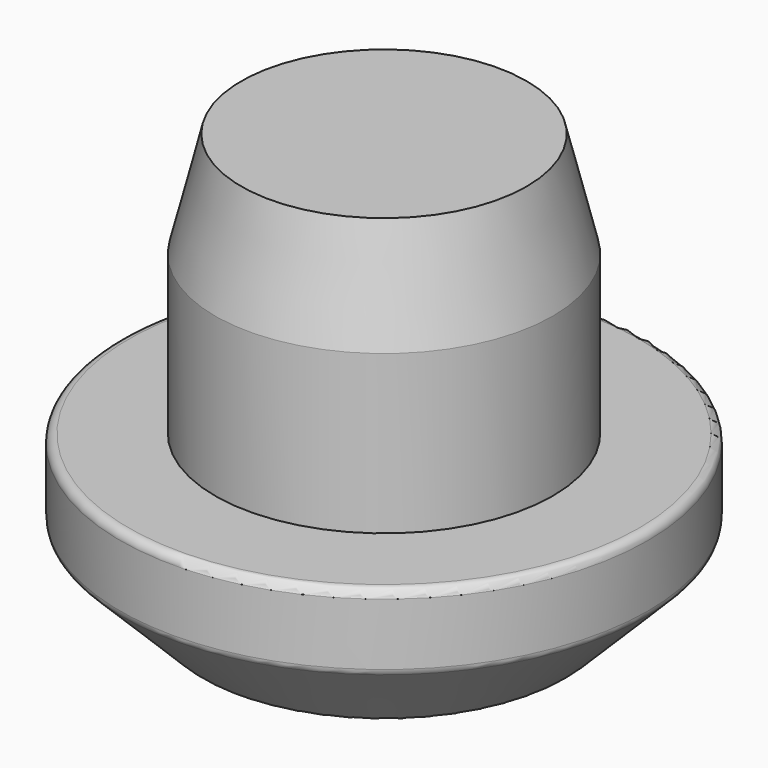
from build123d import *

# Parameters (mm, degrees)
F0_R     = 15.875
F0_R_2   = 10.16
F1_DEPTH = 9.525
F2_DEPTH = 15.875
F3_SIZE2 = 1.5748
F3_SIZE  = 6.35
F4_SIZE  = 5.08
F5_R     = 0.508


with BuildPart() as f1:
    # F0 (on Top) → F1 (new body)
    with BuildSketch(Plane.XY):
        Circle(F0_R)
        Circle(F0_R_2, mode=Mode.SUBTRACT)
        Circle(F0_R_2)
    extrude(amount=-F1_DEPTH)

    # F0 (on Top) → F2 (join)
    with BuildSketch(Plane.XY):
        Circle(F0_R_2)
    extrude(amount=F2_DEPTH)

    # F3
    f3_edges = [f1.edges().sort_by_distance(p)[0] for p in [
        (-10.16, 0, 15.875),
    ]]
    f3_side = f1.faces().sort_by_distance((-10.16, 0, 7.9375))[0]
    chamfer(f3_edges, length=F3_SIZE, length2=F3_SIZE2, reference=f3_side)

    # F4
    f4_edges = [f1.edges().sort_by_distance(p)[0] for p in [
        (-15.875, 0, -9.525),
    ]]
    chamfer(f4_edges, length=F4_SIZE)

    # F5
    f5_edges = [f1.edges().sort_by_distance(p)[0] for p in [
        (-15.875, 0, 0),
        (-15.875, 0, -4.445),
        (-10.795, 0, -9.525),
    ]]
    fillet(f5_edges, radius=F5_R)


solid = f1.part
